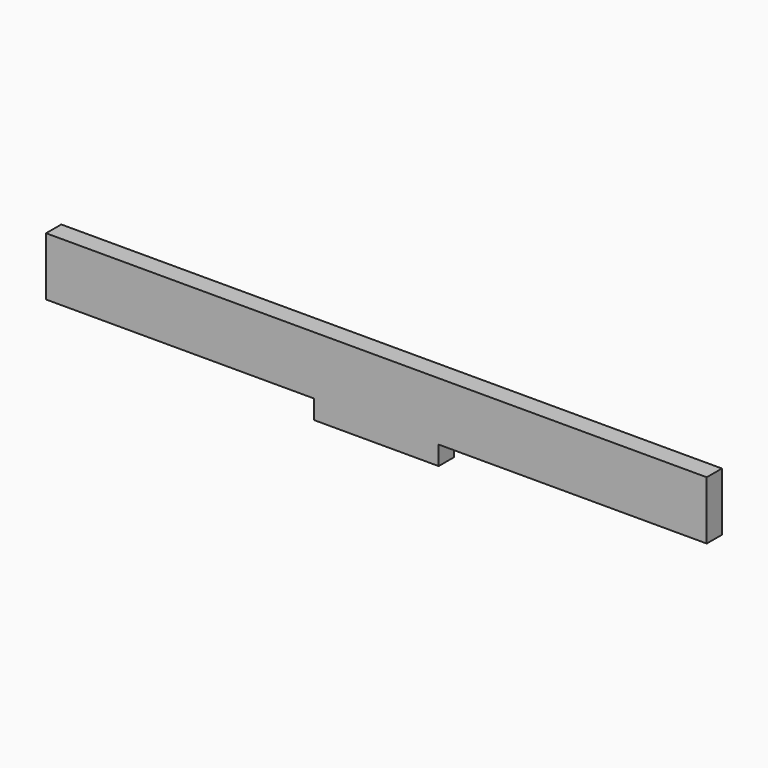
from build123d import *

# Parameters (mm, degrees)
F1_DEPTH = 3.1


with BuildPart() as f1:
    # F0 (on Front) → F1 (new body)
    with BuildSketch(Plane.XZ):
        Polygon((0, 9.525), (0, 0), (43.7388, 0), (53.8988, 0), (64.0588, 0), (107.7976, 0), (107.7976, 9.525), align=None)
        Polygon((53.8988, 0), (43.7388, 0), (43.7388, -3.1), (64.0588, -3.1), (64.0588, 0), align=None)
    extrude(amount=F1_DEPTH)


solid = f1.part
